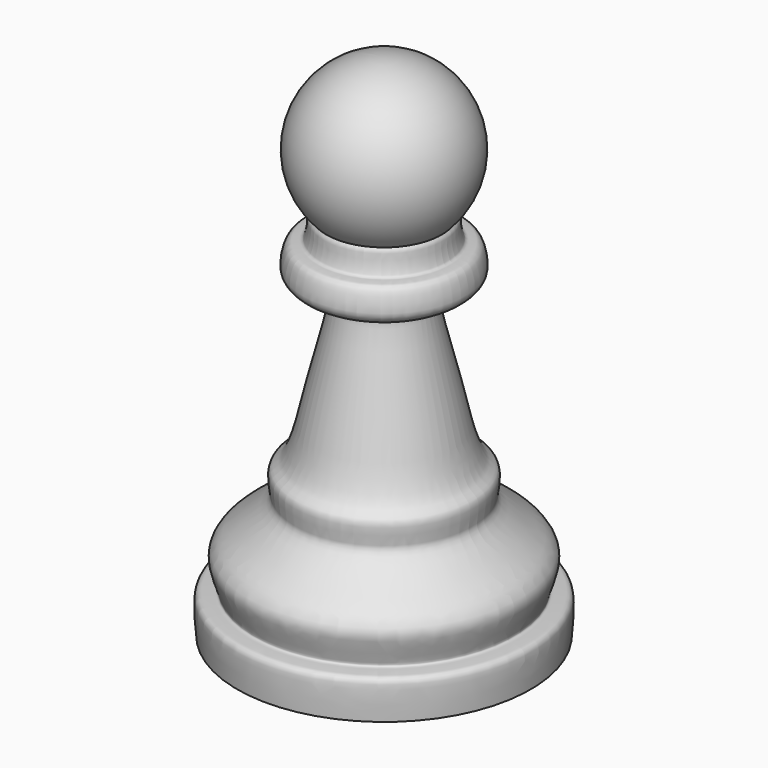
from build123d import *


with BuildPart() as f1:
    # F0 (on Front) → F1 (revolve)
    with BuildSketch(Plane.XZ):
        with BuildLine():
            Line((-1.269476139, 3.2093630469), (-1.269476139, 8.8979768709))
            ThreePointArc((-1.269476139, 8.8979768709), (-6.5114176213, 5.4189731336), (-5.3416972922, -0.7627072091))
            add(Edge.make_bspline(
                [(-5.3416972922, -0.7627072091), (-5.5399321399, -0.9245425062), (-5.4600374964, -1.4668414774), (-5.6063671111, -2.0130056032), (-5.744534275, -2.5786645594), (-6.6735861114, -2.3070345952), (-7.009594367, -3.6334031013), (-6.9909361273, -4.5141543041), (-5.9611761984, -5.1840929276), (-4.7010116642, -5.1121444029), (-4.008028213, -5.7738338422), (-5.5053701384, -10.39938754), (-6.5008641224, -16.134667822), (-7.7407905367, -16.4523688107), (-7.6140461528, -17.7520600278), (-7.3473919891, -18.6913777417), (-10.0202313941, -20.5500359986), (-10.7709107496, -21.3612019704), (-11.0686778053, -22.2046521419), (-10.395437016, -23.8059470794), (-10.415091107, -24.2445255651), (-11.6074806699, -24.0611263535), (-11.7700539463, -24.925090324), (-11.6728250268, -26.1530923506), (-11.6103319451, -26.9423797727)],
                knots=[0, 0, 0, 0, 0.0343899581, 0.0664690714, 0.0937992973, 0.1276617783, 0.1718099533, 0.2097813976, 0.252814253, 0.2980759429, 0.3299375522, 0.4200746099, 0.5191455494, 0.5577015199, 0.6004119688, 0.6388645112, 0.7105726594, 0.754689612, 0.7918923999, 0.8455307183, 0.8671073508, 0.9069800183, 0.9403276368, 1, 1, 1, 1], degree=3))
            Line((-11.6103319451, -26.9423797727), (-1.269476139, -26.9423797727))
            Line((-1.269476139, -26.9423797727), (-1.269476139, 3.2093630469))
        make_face()
    revolve(axis=Axis((-1.269476139, 0, -11.8665083629), (0, 0, -1)))


solid = f1.part
